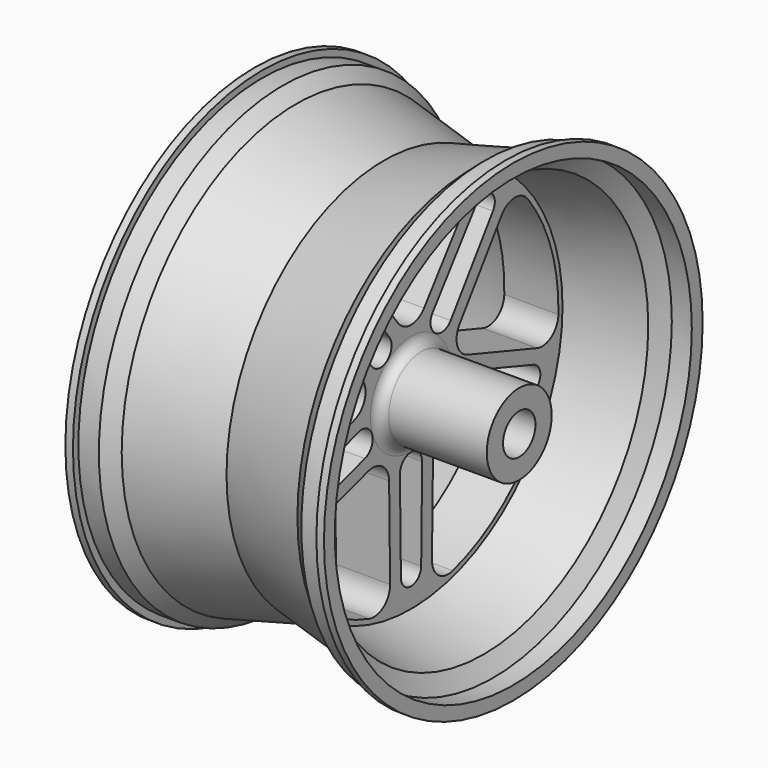
from build123d import *

# Parameters (mm, degrees)
F3_DEPTH = 152.401
F5_DEPTH = 152.401
F6_R     = 9.525


with BuildPart() as f1:
    # F0 (on Top) → F1 (revolve)
    with BuildSketch(Plane.XY):
        Polygon((-127, 19.05), (0, 19.05), (127, 19.05), (127, 38.1), (25.4, 38.1), (25.4, 177.8), (93.647316, 193.121127), (102.644078, 209.55), (121.419929, 209.55), (121.419929, 222.25), (114.3, 222.25), (114.3, 215.9), (95.063061, 215.9), (82.503349, 204.779378), (0, 184.872866), (-82.503349, 204.779378), (-95.063061, 215.9), (-114.3, 215.9), (-114.3, 222.25), (-121.419929, 222.25), (-121.419929, 209.55), (-102.644078, 209.55), (-93.647316, 193.121127), (-25.4, 177.8), (-25.4, 38.1), (-127, 38.1), align=None)
    revolve(axis=Axis((63.5, 0, 0), (1, 0, 0)))

    # F2 (on face) → F3 (cut, through all)
    with BuildSketch(Plane.YZ.offset(25.4)):
        with BuildLine():
            ThreePointArc((66.762265, 133.715989), (69.734989, 150.63986), (57.873824, 163.072367))
            ThreePointArc((57.873824, 163.072367), (0, 173.0375), (-57.873824, 163.072367))
            ThreePointArc((-57.873824, 163.072367), (-69.734989, 150.63986), (-66.762265, 133.715989))
            Line((-66.762265, 133.715989), (-15.259872, 64.796543))
            ThreePointArc((-15.259872, 64.796543), (0, 57.15), (15.259872, 64.796543))
            Line((15.259872, 64.796543), (66.762265, 133.715989))
        make_face()
        with BuildLine():
            ThreePointArc((-172.975032, -4.649144), (-164.816317, -19.771639), (-147.802138, -22.174174))
            Line((-147.802138, -22.174174), (-66.340734, 5.510233))
            ThreePointArc((-66.340734, 5.510233), (-54.35288, 17.660321), (-56.909615, 34.536233))
            Line((-56.909615, 34.536233), (-106.540789, 104.8152))
            ThreePointArc((-106.540789, 104.8152), (-121.717724, 112.872192), (-137.207042, 105.43341))
            ThreePointArc((-137.207042, 105.43341), (-164.568442, 53.471528), (-172.975032, -4.649144))
        make_face()
        with BuildLine():
            ThreePointArc((-49.030625, -165.945696), (-32.127097, -162.859405), (-24.584479, -147.420383))
            Line((-24.584479, -147.420383), (-25.740957, -61.391032))
            ThreePointArc((-25.740957, -61.391032), (-33.591927, -46.235321), (-50.431948, -43.451977))
            Line((-50.431948, -43.451977), (-132.608094, -68.936633))
            ThreePointArc((-132.608094, -68.936633), (-144.960679, -80.881009), (-142.672439, -97.910936))
            ThreePointArc((-142.672439, -97.910936), (-101.708891, -139.990278), (-49.030625, -165.945696))
        make_face()
        with BuildLine():
            ThreePointArc((142.672439, -97.910936), (144.960679, -80.881009), (132.608094, -68.936633))
            Line((132.608094, -68.936633), (50.431948, -43.451977))
            ThreePointArc((50.431948, -43.451977), (33.591927, -46.235321), (25.740957, -61.391032))
            Line((25.740957, -61.391032), (24.584479, -147.420383))
            ThreePointArc((24.584479, -147.420383), (32.127097, -162.859405), (49.030625, -165.945696))
            ThreePointArc((49.030625, -165.945696), (101.708891, -139.990278), (142.672439, -97.910936))
        make_face()
        with BuildLine():
            ThreePointArc((137.207042, 105.43341), (121.717724, 112.872192), (106.540789, 104.8152))
            Line((106.540789, 104.8152), (56.909615, 34.536233))
            ThreePointArc((56.909615, 34.536233), (53.63544, 26.400646), (54.35288, 17.660321))
            ThreePointArc((54.35288, 17.660321), (58.909893, 10.167549), (66.340734, 5.510233))
            Line((66.340734, 5.510233), (147.802138, -22.174174))
            ThreePointArc((147.802138, -22.174174), (164.816317, -19.771639), (172.975032, -4.649144))
            ThreePointArc((172.975032, -4.649144), (164.568442, 53.471528), (137.207042, 105.43341))
        make_face()
    extrude(amount=-F3_DEPTH, mode=Mode.SUBTRACT)

    # F4 (on face) → F5 (cut, through all)
    with BuildSketch(Plane.YZ.offset(25.4)):
        with BuildLine():
            Line((76.935513, 126.113685), (25.433119, 57.194239))
            ThreePointArc((25.433119, 57.194239), (28.214702, 38.834206), (46.535688, 41.862326))
            Line((46.535688, 41.862326), (96.166861, 112.141293))
            ThreePointArc((96.166861, 112.141293), (93.4441, 128.61477), (76.935513, 126.113685))
        make_face()
        with BuildLine():
            Line((-25.433119, 57.194239), (-76.935513, 126.113685))
            ThreePointArc((-76.935513, 126.113685), (-93.4441, 128.61477), (-96.166861, 112.141293))
            Line((-96.166861, 112.141293), (-46.535688, 41.862326))
            ThreePointArc((-46.535688, 41.862326), (-28.214702, 38.834206), (-25.433119, 57.194239))
        make_face()
        with BuildLine():
            Line((-62.25422, -6.514342), (-143.715623, -34.198749))
            ThreePointArc((-143.715623, -34.198749), (-151.19573, -49.126471), (-136.369902, -56.806555))
            Line((-136.369902, -56.806555), (-54.193756, -31.321899))
            ThreePointArc((-54.193756, -31.321899), (-45.652347, -14.833347), (-62.25422, -6.514342))
        make_face()
        with BuildLine():
            Line((-13.042105, -61.220324), (-11.885627, -147.249674))
            ThreePointArc((-11.885627, -147.249674), (0, -158.976599), (11.885627, -147.249674))
            Line((11.885627, -147.249674), (13.042105, -61.220324))
            ThreePointArc((13.042105, -61.220324), (0, -48.001718), (-13.042105, -61.220324))
        make_face()
        with BuildLine():
            Line((54.193756, -31.321899), (136.369902, -56.806555))
            ThreePointArc((136.369902, -56.806555), (151.19573, -49.126471), (143.715623, -34.198749))
            Line((143.715623, -34.198749), (62.25422, -6.514342))
            ThreePointArc((62.25422, -6.514342), (45.652347, -14.833347), (54.193756, -31.321899))
        make_face()
    extrude(amount=-F5_DEPTH, mode=Mode.SUBTRACT)

    # F6
    f6_edges = [f1.edges().sort_by_distance(p)[0] for p in [
        (25.4, -38.1, 0),
        (-25.4, -38.1, 0),
    ]]
    fillet(f6_edges, radius=F6_R)


solid = f1.part
